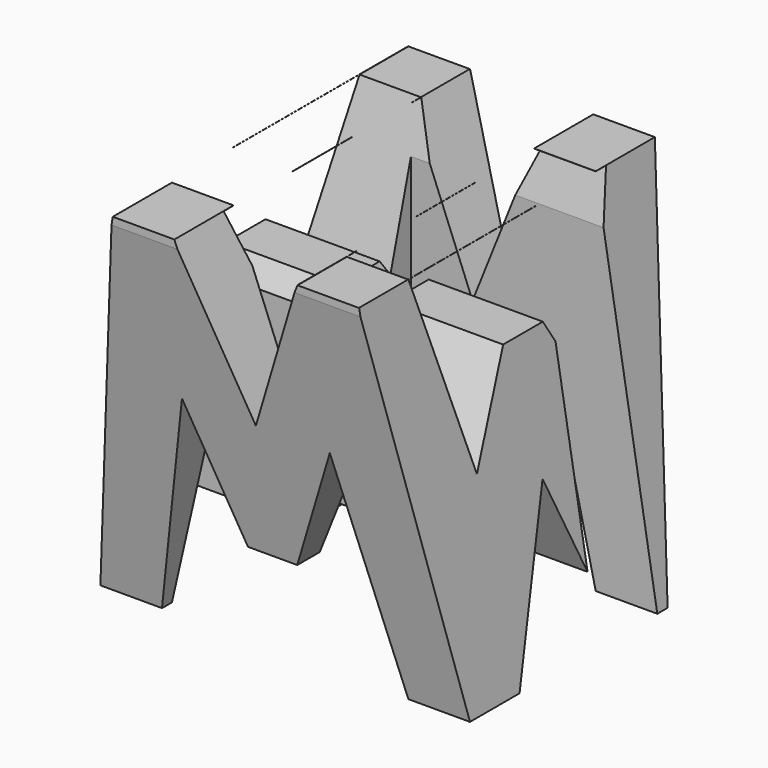
from build123d import *

# Parameters (mm, degrees)
F0_W      = 38.1
F0_H      = 38.1
F1_DEPTH  = 38.1
F6_DEPTH  = 38.1
F8_DEPTH  = 38.1
F9_W      = 25.4
F9_H      = 7.62
F10_DEPTH = 38.1
F11_DEPTH = 0.0254


with BuildPart() as f1:
    # F0 (on Front) → F1 (new body)
    with BuildSketch(Plane.XZ):
        with Locations((19.05, 19.05)):
            Rectangle(F0_W, F0_H)
    extrude(amount=F1_DEPTH)

    # F5 (on offset) → F6 (cut)
    with BuildSketch(Plane.YZ.offset(38.1)):
        Polygon((0, 0), (0, 38.0859561265), (-6.2931971624, 0), align=None)
        Polygon((-25.370804593, 0), (-12.5956209376, 0), (-19.0683808178, 16.0274729133), align=None)
        Polygon((-38.2311567664, 0), (-31.7583978176, 0), (-38.2311567664, 38.0859561265), align=None)
        Polygon((-31.7583978176, 38.0859561265), (-26.8186591566, 19.4341894239), (-21.5382501483, 28.5471547395), (-16.4281763136, 28.5471547395), (-11.4032700658, 19.4341894239), (-6.2931971624, 38.0859561265), align=None)
    extrude(amount=-F6_DEPTH, mode=Mode.SUBTRACT)

    # F7 (on offset) → F8 (cut)
    with BuildSketch(Plane.XZ.offset(38.1)):
        Polygon((0, 38.1), (0, 0), (6.35, 38.1), align=None)
        Polygon((11.43, 22.225), (6.35, 0), (31.75, 0), (26.67, 22.225), (21.59, 9.525), (16.51, 9.525), align=None)
        Polygon((25.4, 38.1), (12.7, 38.1), (19.05, 22.225), align=None)
        Polygon((31.75, 38.1), (38.1, 0), (38.1, 38.1), align=None)
    extrude(amount=-F8_DEPTH, mode=Mode.SUBTRACT)

    # F9 (on offset) → F10 (cut)
    with BuildSketch(Plane.XY.offset(38.1)):
        with Locations((25.4, -11.43)):
            Rectangle(F9_W, F9_H)
        with Locations((12.7, -26.67)):
            Rectangle(F9_W, F9_H)
    extrude(amount=-F10_DEPTH, mode=Mode.SUBTRACT)

    # F11 (cut): faces of the model
    f11_faces = [f1.faces().sort_by_distance(p)[0] for p in [
        (9.525, -11.43, 38.1),
        (28.575, -26.67, 38.1),
    ]]
    extrude(f11_faces, amount=-F11_DEPTH, mode=Mode.SUBTRACT)


solid = f1.part
